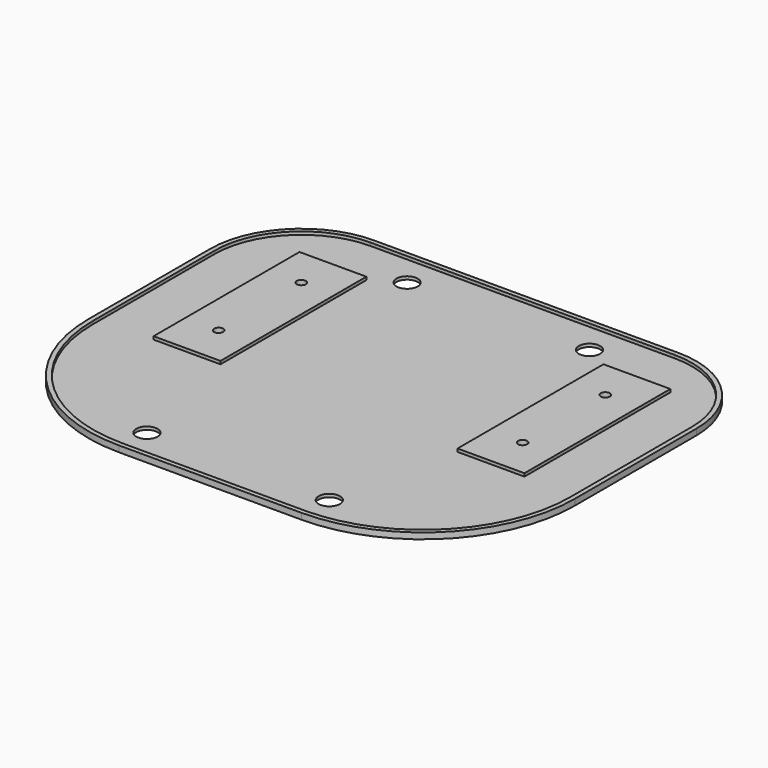
from build123d import *

# Parameters (mm, degrees)
F0_R     = 3.5
F0_W     = 22
F0_H     = 60
F1_DEPTH = 1
F0_R_2   = 1.5
F2_DEPTH = 2


with BuildPart() as f1:
    # F0 (on Top) → F1 (new body)
    with BuildSketch(Plane.XY):
        with BuildLine():
            Line((78.5, -15), (78.5, 35))
            ThreePointArc((78.5, 35), (70.1525432638, 55.1525432638), (50, 63.5))
            Line((50, 63.5), (-50, 63.5))
            ThreePointArc((-50, 63.5), (-70.1525432638, 55.1525432638), (-78.5, 35))
            Line((-78.5, 35), (-78.5, -15))
            ThreePointArc((-78.5, -15), (-64.2946788875, -49.2946788875), (-30, -63.5))
            Line((-30, -63.5), (30, -63.5))
            ThreePointArc((30, -63.5), (64.2946788875, -49.2946788875), (78.5, -15))
        make_face()
        with Locations((-30, -53.5)):
            Circle(F0_R, mode=Mode.SUBTRACT)
        with Locations((30, -53.5)):
            Circle(F0_R, mode=Mode.SUBTRACT)
        with Locations((-50, 18)):
            Rectangle(F0_W, F0_H, mode=Mode.SUBTRACT)
        with Locations((-30, 53.5)):
            Circle(F0_R, mode=Mode.SUBTRACT)
        with Locations((50, 18)):
            Rectangle(F0_W, F0_H, mode=Mode.SUBTRACT)
        with Locations((30, 53.5)):
            Circle(F0_R, mode=Mode.SUBTRACT)
    extrude(amount=F1_DEPTH)

    # F0 (on Top) → F2 (join)
    with BuildSketch(Plane.XY):
        with BuildLine():
            Line((-30, -65), (30, -65))
            ThreePointArc((30, -65), (65.3553390593, -50.3553390593), (80, -15))
            Line((80, -15), (80, 35))
            ThreePointArc((80, 35), (71.2132034356, 56.2132034356), (50, 65))
            Line((50, 65), (-50, 65))
            ThreePointArc((-50, 65), (-71.2132034356, 56.2132034356), (-80, 35))
            Line((-80, 35), (-80, -15))
            ThreePointArc((-80, -15), (-65.3553390593, -50.3553390593), (-30, -65))
        make_face()
        with BuildLine():
            ThreePointArc((50, 63.5), (70.1525432638, 55.1525432638), (78.5, 35))
            Line((78.5, 35), (78.5, -15))
            ThreePointArc((78.5, -15), (64.2946788875, -49.2946788875), (30, -63.5))
            Line((30, -63.5), (-30, -63.5))
            ThreePointArc((-30, -63.5), (-64.2946788875, -49.2946788875), (-78.5, -15))
            Line((-78.5, -15), (-78.5, 35))
            ThreePointArc((-78.5, 35), (-70.1525432638, 55.1525432638), (-50, 63.5))
            Line((-50, 63.5), (50, 63.5))
        make_face(mode=Mode.SUBTRACT)
        with Locations((-50, 18)):
            Rectangle(F0_W, F0_H)
        with Locations((-50, 1)):
            Circle(F0_R_2, mode=Mode.SUBTRACT)
        with Locations((-50, 35)):
            Circle(F0_R_2, mode=Mode.SUBTRACT)
        with Locations((50, 18)):
            Rectangle(F0_W, F0_H)
        with Locations((50, 1)):
            Circle(F0_R_2, mode=Mode.SUBTRACT)
        with Locations((50, 35)):
            Circle(F0_R_2, mode=Mode.SUBTRACT)
    extrude(amount=F2_DEPTH)


solid = f1.part
